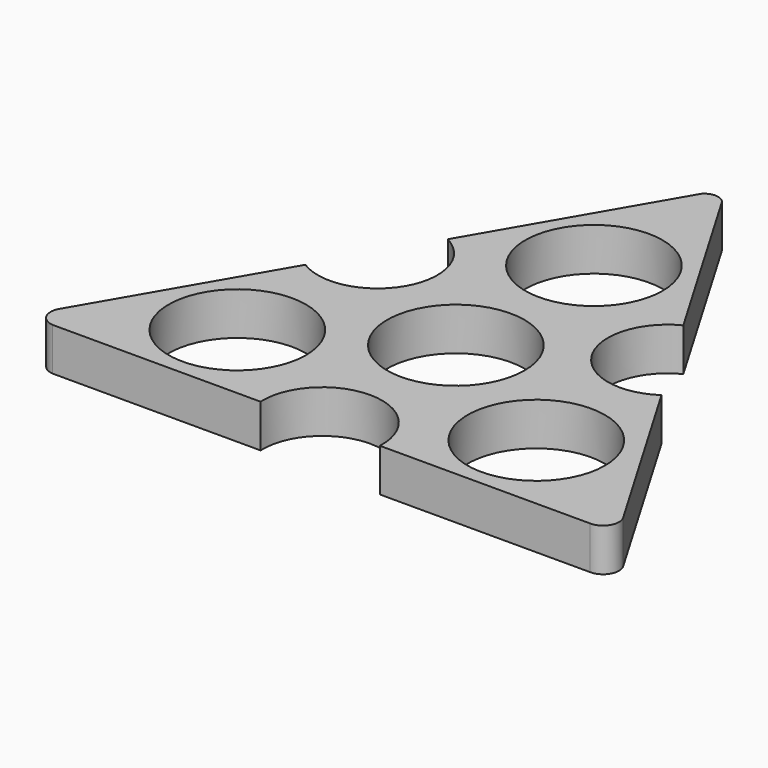
from build123d import *

# Parameters (mm, degrees)
F0_R     = 11.2
F1_DEPTH = 7


with BuildPart() as f1:
    # F0 (on Top) → F1 (new body)
    with BuildSketch(Plane.XY):
        with BuildLine():
            ThreePointArc((1.78587, 52.038384), (0.064532, 52.918286), (-1.704408, 52.138489))
            Line((-1.704408, 52.138489), (-19.066227, 22.201317))
            ThreePointArc((-19.066227, 22.201317), (-15.219751, 8.713844), (-28.836632, 5.354102))
            Line((-28.836632, 5.354102), (-45.811212, -23.915348))
            ThreePointArc((-45.811212, -23.915348), (-45.706618, -26.395442), (-43.605451, -27.717147))
            Line((-43.605451, -27.717147), (-9.689672, -27.717147))
            ThreePointArc((-9.689672, -27.717147), (0.044547, -17.537595), (9.778766, -27.717147))
            Line((9.778766, -27.717147), (44.043854, -27.717147))
            ThreePointArc((44.043854, -27.717147), (46.3259, -26.513132), (46.431202, -23.935091))
            Line((46.431202, -23.935091), (29.068287, 5.61158))
            ThreePointArc((29.068287, 5.61158), (15.203422, 8.742665), (19.215132, 22.378807))
            Line((19.215132, 22.378807), (1.78587, 52.038384))
        make_face()
        with Locations((-24.390228, -14.081704)):
            Circle(F0_R, mode=Mode.SUBTRACT)
        Circle(F0_R, mode=Mode.SUBTRACT)
        with Locations((24.390229, -14.081704)):
            Circle(F0_R, mode=Mode.SUBTRACT)
        with Locations((0, 28.163411)):
            Circle(F0_R, mode=Mode.SUBTRACT)
    extrude(amount=F1_DEPTH)


solid = f1.part
